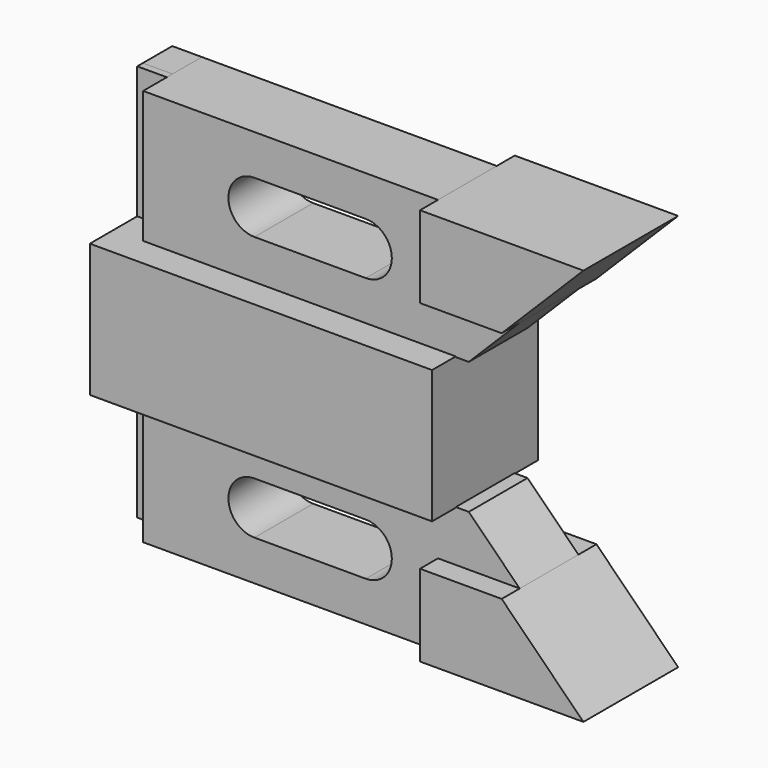
from build123d import *

# Parameters (mm, degrees)
F1_DEPTH = 12.7
F2_DEPTH = 14.224
F3_DEPTH = 7.874
F0_W     = 6.35
F0_H     = 28.448
F4_DEPTH = 7.874
F5_DEPTH = 1.524


with BuildPart() as f1:
    # F0 (on Front) → F1 (new body, symmetric)
    with BuildSketch(Plane.XZ):
        Polygon((42.707863, 29.239993), (7.655863, 29.239993), (7.655863, 11.713993), (25.181863, 11.713993), align=None)
    extrude(amount=F1_DEPTH, both=True)


with BuildPart() as f2:
    # F0 (on Front) → F2 (new body, symmetric)
    with BuildSketch(Plane.XZ):
        Polygon((-55.590137, 0.791993), (-61.940137, 0.791993), (-61.940137, -27.656007), (11.465863, -27.656007), (11.465863, 0.791993), align=None)
    extrude(amount=F2_DEPTH, both=True)


with BuildPart() as f3:
    # F0 (on Front) → F3 (new body, symmetric)
    with BuildSketch(Plane.XZ):
        Polygon((7.655863, 29.239993), (-55.590137, 29.239993), (-55.590137, 0.791993), (11.465863, 0.791993), (14.259863, 0.791993), (25.181863, 11.713993), (7.655863, 11.713993), align=None)
        with BuildLine():
            ThreePointArc((-31.714137, 9.427993), (-37.302137, 15.015993), (-31.714137, 20.603993))
            Line((-31.714137, 20.603993), (-7.838137, 20.603993))
            ThreePointArc((-7.838137, 20.603993), (-2.250137, 15.015993), (-7.838137, 9.427993))
            Line((-7.838137, 9.427993), (-31.714137, 9.427993))
        make_face(mode=Mode.SUBTRACT)
    extrude(amount=F3_DEPTH, both=True)


with BuildPart() as f4:
    # F0 (on Front) → F4 (new body)
    with BuildSketch(Plane.XZ):
        with Locations((-58.765137, 15.015993)):
            Rectangle(F0_W, F0_H)
    extrude(amount=-F4_DEPTH)


with BuildPart() as f5:
    # F0 (on Front) → F5 (new body)
    with BuildSketch(Plane.XZ):
        with Locations((-58.765137, 15.015993)):
            Rectangle(F0_W, F0_H)
    extrude(amount=F5_DEPTH)


with BuildPart() as f7_1:
    # F7: instance of F3
    add(f3.part.mirror(Plane(origin=(-25.237137, 0, -13.368507), x_dir=(1, 0, 0), z_dir=(0, 0, -1))))


with BuildPart() as f7_2:
    # F7: instance of F4
    add(f4.part.mirror(Plane(origin=(-25.237137, 0, -13.368507), x_dir=(1, 0, 0), z_dir=(0, 0, -1))))


with BuildPart() as f7_3:
    # F7: instance of F5
    add(f5.part.mirror(Plane(origin=(-25.237137, 0, -13.368507), x_dir=(1, 0, 0), z_dir=(0, 0, -1))))


with BuildPart() as f7_4:
    # F7: instance of F2
    add(f2.part.mirror(Plane(origin=(-25.237137, 0, -13.368507), x_dir=(1, 0, 0), z_dir=(0, 0, -1))))


with BuildPart() as f7_5:
    # F7: instance of F1
    add(f1.part.mirror(Plane(origin=(-25.237137, 0, -13.368507), x_dir=(1, 0, 0), z_dir=(0, 0, -1))))


solid = Compound([f1.part, f2.part, f3.part, f4.part, f5.part, f7_1.part, f7_2.part, f7_3.part, f7_4.part, f7_5.part])
